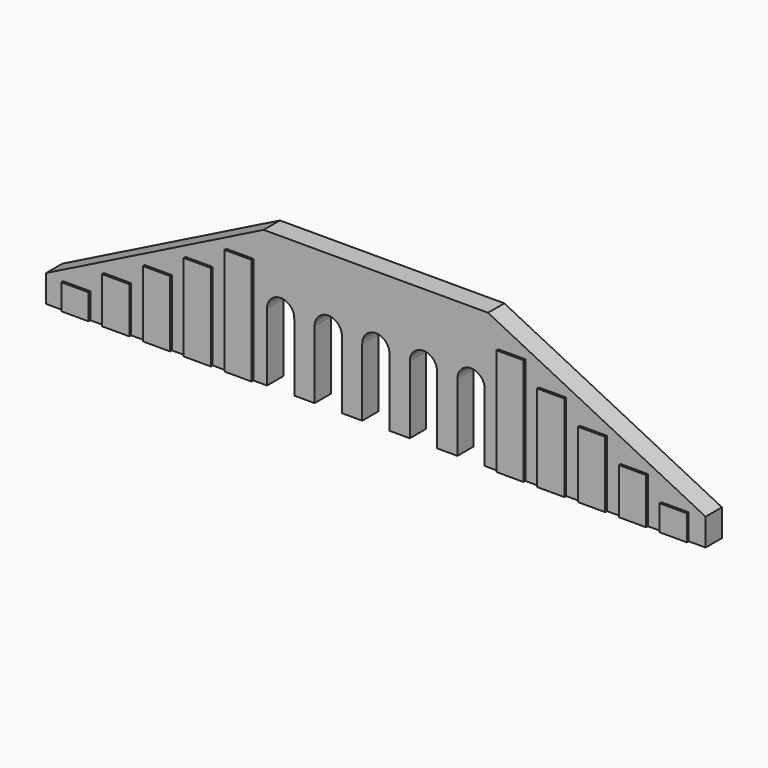
from build123d import *

# Parameters (mm, degrees)
F1_W     = 609.6
F1_H     = 1030.115493486
F2_DEPTH = 50.8
F1_H_2   = 2401.715493486
F1_H_3   = 1944.515493486
F1_H_4   = 1487.315493486
F1_H_5   = 572.915493486
F3_DEPTH = 457.2
F6_DEPTH = 457.201


with BuildPart() as f2:
    # F1 (on face) → F2 (new body)
    with BuildSketch(Plane.XZ):
        with Locations((-5791.2, 515.057746743)):
            Rectangle(F1_W, F1_H)
    extrude(amount=F2_DEPTH)



with BuildPart() as f2b:
    # F1 (on face) → F2, piece 2 (new body)
    with BuildSketch(Plane.XZ):
        with Locations((-3048, 1200.857746743)):
            Rectangle(F1_W, F1_H_2)
    extrude(amount=F2_DEPTH)


with BuildPart() as f2c:
    # F1 (on face) → F2, piece 3 (new body)
    with BuildSketch(Plane.XZ):
        with Locations((-3962.4, 972.257746743)):
            Rectangle(F1_W, F1_H_3)
    extrude(amount=F2_DEPTH)


with BuildPart() as f2d:
    # F1 (on face) → F2, piece 4 (new body)
    with BuildSketch(Plane.XZ):
        with Locations((-4876.8, 743.657746743)):
            Rectangle(F1_W, F1_H_4)
    extrude(amount=F2_DEPTH)


with BuildPart() as f2e:
    # F1 (on face) → F2, piece 5 (new body)
    with BuildSketch(Plane.XZ):
        with Locations((-6705.6, 286.457746743)):
            Rectangle(F1_W, F1_H_5)
    extrude(amount=F2_DEPTH)


with BuildPart() as f2_1:
    add(f2.part)

    add(f2b.part)  # F3 merges F2b

    add(f2c.part)  # F3 merges F2c

    add(f2d.part)  # F3 merges F2d

    add(f2e.part)  # F3 merges F2e
    # F0 (on Front) → F3 (join)
    with BuildSketch(Plane.XZ):
        Polygon((-7391.4, 609.6), (-7391.4, 0), (7391.4, 0), (7391.4, 609.6), (2514.6, 3048), (-2514.6, 3048), align=None)
    extrude(amount=-F3_DEPTH)

    # F4: F2 across plane


with BuildPart() as f2_2:
    add(f2_1.part)
    add(f2_1.part.mirror(Plane.YZ))

    # F5 (on face) → F6 (cut, through all)
    with BuildSketch(Plane.XZ):
        with BuildLine():
            Line((-2438.4, 1524), (-2438.4, 0))
            Line((-2438.4, 0), (-1828.8, 0))
            Line((-1828.8, 0), (-1828.8, 1524))
            ThreePointArc((-1828.8, 1524), (-2133.6, 1828.8), (-2438.4, 1524))
        make_face()
        with BuildLine():
            Line((-1371.6, 1524), (-1371.6, 0))
            Line((-1371.6, 0), (-762, 0))
            Line((-762, 0), (-762, 1524))
            ThreePointArc((-762, 1524), (-1066.8, 1828.8), (-1371.6, 1524))
        make_face()
        with BuildLine():
            Line((-304.8, 1524), (-304.8, 0))
            Line((-304.8, 0), (304.8, 0))
            Line((304.8, 0), (304.8, 1524))
            ThreePointArc((304.8, 1524), (0, 1828.8), (-304.8, 1524))
        make_face()
        with BuildLine():
            Line((762, 1524), (762, 0))
            Line((762, 0), (1371.6, 0))
            Line((1371.6, 0), (1371.6, 1524))
            ThreePointArc((1371.6, 1524), (1066.8, 1828.8), (762, 1524))
        make_face()
        with BuildLine():
            Line((1828.8, 1524), (1828.8, 0))
            Line((1828.8, 0), (2438.4, 0))
            Line((2438.4, 0), (2438.4, 1524))
            ThreePointArc((2438.4, 1524), (2133.6, 1828.8), (1828.8, 1524))
        make_face()
    extrude(amount=-F6_DEPTH, mode=Mode.SUBTRACT)


solid = f2_2.part
